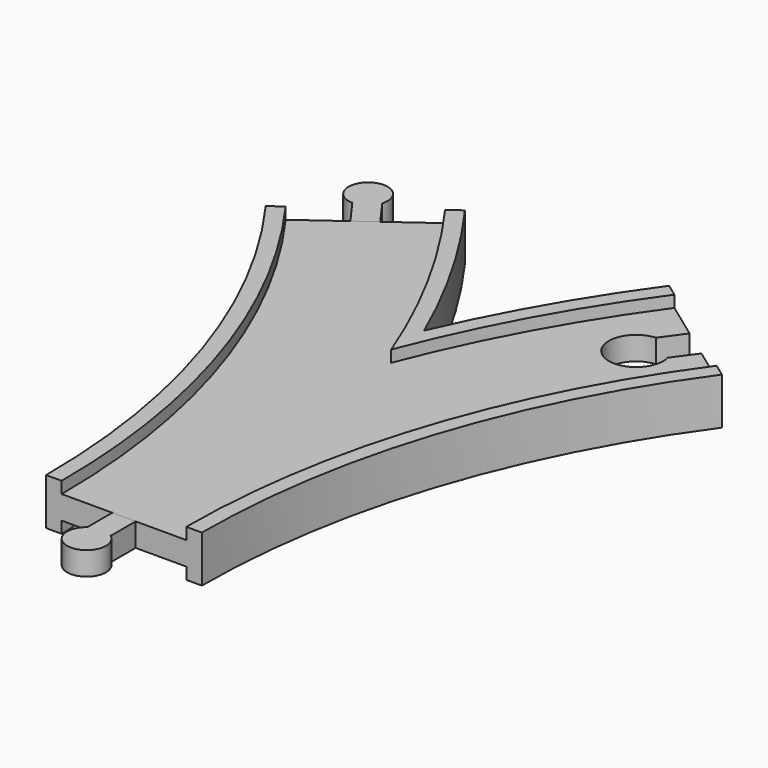
from build123d import *

# Parameters (mm, degrees)
SKETCH013_W       = 32
SKETCH013_H       = 3
POCKET_DEPTH      = 6.001
POCKET_DEPTH_BACK = -6.001
PAD_DEPTH         = 3
PAD002_DEPTH      = 3


with BuildPart() as main:
    # AdditivePipe: sweep along a path in Sketch
    with BuildLine(Plane.XY) as additivepipe_path:
        ThreePointArc((0, 0), (-10.865453, 68.601773), (-42.398227, 130.488326))
    # Sketch002 → AdditivePipe (sweep)
    with BuildSketch(Plane.XZ):
        Polygon((-20, 6), (-20, -6), (-16, -6), (-16, -3), (-9, -3), (9, -3), (16, -3), (16, -6), (20, -6), (20, 6), (16, 6), (16, 3), (9, 3), (-9, 3), (-16, 3), (-16, 6), align=None)
    sweep(path=additivepipe_path.line)

    # AdditivePipe001: sweep along a path in Sketch001
    with BuildLine(Plane.XY) as additivepipe001_path:
        ThreePointArc((42.398227, 130.488326), (10.865453, 68.601773), (0, 0))
    # Sketch002 → AdditivePipe001 (sweep)
    with BuildSketch(Plane.XZ):
        Polygon((-20, 6), (-20, -6), (-16, -6), (-16, -3), (-9, -3), (9, -3), (16, -3), (16, -6), (20, -6), (20, 6), (16, 6), (16, 3), (9, 3), (-9, 3), (-16, 3), (-16, 6), align=None)
    sweep(path=additivepipe001_path.line)

    # SubtractivePipe: sweep along a path in Sketch
    with BuildLine(Plane.XY) as subtractivepipe_path:
        ThreePointArc((0, 0), (-10.865453, 68.601773), (-42.398227, 130.488326))
    # Sketch013 (on Face1 of AdditivePipe001) → SubtractivePipe (sweep, cut)
    with BuildSketch(Plane.XZ):
        with Locations((0, 4.5)):
            Rectangle(SKETCH013_W, SKETCH013_H)
    subtractivepipe = sweep(path=subtractivepipe_path.line, mode=Mode.SUBTRACT)

    # SubtractivePipe001: sweep along a path in Sketch001
    with BuildLine(Plane.XY) as subtractivepipe001_path:
        ThreePointArc((42.398227, 130.488326), (10.865453, 68.601773), (0, 0))
    # Sketch013 (on Face1 of AdditivePipe001) → SubtractivePipe001 (sweep, cut)
    with BuildSketch(Plane.XZ):
        with Locations((0, 4.5)):
            Rectangle(SKETCH013_W, SKETCH013_H)
    subtractivepipe001 = sweep(path=subtractivepipe001_path.line, mode=Mode.SUBTRACT)

    # Mirrored: SubtractivePipe across XY
    add(subtractivepipe.mirror(Plane.XY), mode=Mode.SUBTRACT)

    # Mirrored001: SubtractivePipe001 across XY
    add(subtractivepipe001.mirror(Plane.XY), mode=Mode.SUBTRACT)

    # Sketch009 → Pocket (cut, two sides)
    with BuildSketch(Plane.XY) as pocket_sk:
        with BuildLine():
            Line((38.757651, 133.13336), (46.038804, 127.843292))
            Line((46.038804, 127.843292), (41.924307, 122.180173))
            ThreePointArc((34.643154, 127.470241), (31.017586, 114.824218), (41.924307, 122.180173))
            Line((38.757651, 133.13336), (34.643154, 127.470241))
        make_face()
    extrude(amount=-POCKET_DEPTH, mode=Mode.SUBTRACT)
    extrude(pocket_sk.sketch, amount=-POCKET_DEPTH_BACK, mode=Mode.SUBTRACT)


with BuildPart() as male1:
    # Sketch010 → Pad (new body, symmetric)
    with BuildSketch(Plane.XY):
        with BuildLine():
            Line((-3, 0), (3, 0))
            Line((3, 0), (3, -8))
            ThreePointArc((-3, -8), (0, -17), (3, -8))
            Line((-3, 0), (-3, -8))
        make_face()
    extrude(amount=PAD_DEPTH, both=True)


with BuildPart() as male2:
    # Sketch012 → Pad002 (new body, symmetric)
    with BuildSketch(Plane.XY):
        with BuildLine():
            Line((-44.825278, 128.72497), (-39.971176, 132.251682))
            Line((-39.971176, 132.251682), (-44.673458, 138.723818))
            ThreePointArc((-44.673458, 138.723818), (-52.390577, 144.241615), (-49.52756, 135.197106))
            Line((-44.825278, 128.72497), (-49.52756, 135.197106))
        make_face()
    extrude(amount=PAD002_DEPTH, both=True)


solid = Compound([main.part, male1.part, male2.part])
